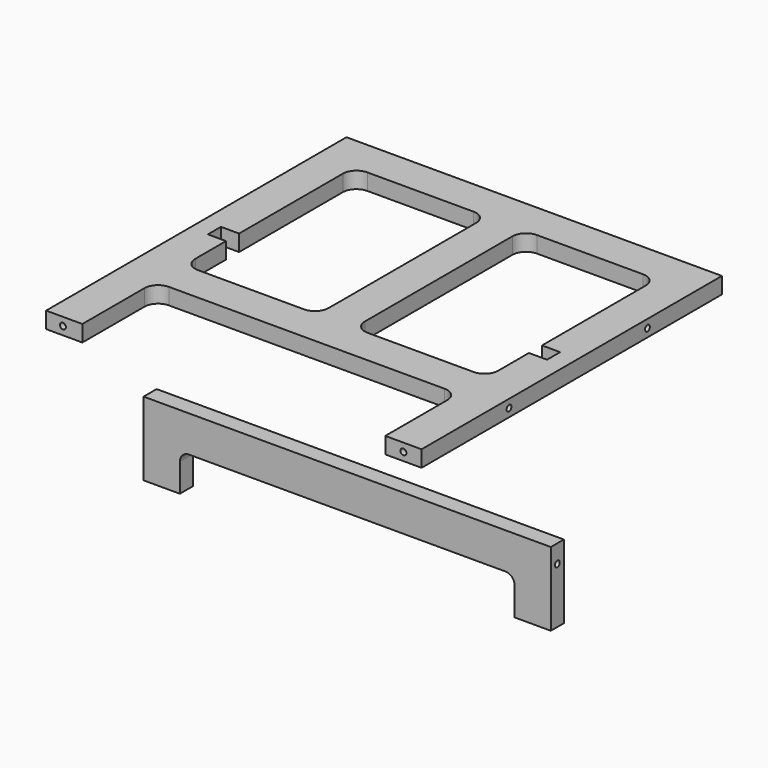
from build123d import *

# Parameters (mm, degrees)
F1_DEPTH         = 18
F6_D             = 6.6
F6_DEPTH         = 6
F6_TIP           = 1.9828400428
F6_ON_F5_D       = 6.6
F6_ON_F5_DEPTH   = 6
F6_ON_F5_TIP     = 1.9828400428
F6_ON_F2_D       = 6.6
F6_ON_F2_DEPTH   = 6
F6_ON_F2_TIP     = 1.9828400428
F6_ON_F4_D       = 6.6
F6_ON_F4_DEPTH   = 6
F6_ON_F4_TIP     = 1.9828400428
F7_ANGLE         = 90
F8_ANGLE         = -90
F10_DEPTH        = 18
F12_DEPTH        = 18
F17_D            = 6.6
F17_DEPTH        = 5
F17_TIP          = 1.9828400428
F17_ON_F15_D     = 6.6
F17_ON_F15_DEPTH = 5
F17_ON_F15_TIP   = 1.9828400428
F17_ON_F16_D     = 6.6
F17_ON_F16_DEPTH = 5
F17_ON_F16_TIP   = 1.9828400428
F17_ON_F14_D     = 6.6
F17_ON_F14_DEPTH = 5
F17_ON_F14_TIP   = 1.9828400428


with BuildPart() as f1:
    # F0 (on Top) → F1 (new body)
    with BuildSketch(Plane.XY):
        with BuildLine():
            Line((15, 353.7286525786), (-192, 353.7286525786))
            Line((-192, 353.7286525786), (-192, -60.2713474214))
            Line((-192, -60.2713474214), (-152, -60.2713474214))
            Line((-152, -60.2713474214), (-152, 25.3286525786))
            ThreePointArc((-152, 25.3286525786), (-147.6066017178, 35.9352542964), (-137, 40.3286525786))
            Line((-137, 40.3286525786), (15, 40.3286525786))
            Line((15, 40.3286525786), (15, 353.7286525786))
        make_face()
        with BuildLine():
            ThreePointArc((-20, 313.7286525786), (-9.3933982822, 309.3352542964), (-5, 298.7286525786))
            Line((-5, 298.7286525786), (-5, 95.3286525786))
            ThreePointArc((-5, 95.3286525786), (-9.3933982822, 84.7220508608), (-20, 80.3286525786))
            Line((-20, 80.3286525786), (-137, 80.3286525786))
            ThreePointArc((-137, 80.3286525786), (-147.6066017178, 84.7220508608), (-152, 95.3286525786))
            Line((-152, 95.3286525786), (-152, 298.7286525786))
            ThreePointArc((-152, 298.7286525786), (-147.6066017178, 309.3352542964), (-137, 313.7286525786))
            Line((-137, 313.7286525786), (-20, 313.7286525786))
        make_face(mode=Mode.SUBTRACT)
        with BuildLine():
            Line((222, 353.7286525786), (15, 353.7286525786))
            Line((15, 353.7286525786), (15, 40.3286525786))
            Line((15, 40.3286525786), (167, 40.3286525786))
            ThreePointArc((167, 40.3286525786), (177.6066017178, 35.9352542964), (182, 25.3286525786))
            Line((182, 25.3286525786), (182, -60.2713474214))
            Line((182, -60.2713474214), (222, -60.2713474214))
            Line((222, -60.2713474214), (222, 353.7286525786))
        make_face()
        with BuildLine():
            ThreePointArc((35, 298.7286525786), (39.3933982822, 309.3352542964), (50, 313.7286525786))
            Line((50, 313.7286525786), (167, 313.7286525786))
            ThreePointArc((167, 313.7286525786), (177.6066017178, 309.3352542964), (182, 298.7286525786))
            Line((182, 298.7286525786), (182, 95.3286525786))
            ThreePointArc((182, 95.3286525786), (177.6066017178, 84.7220508608), (167, 80.3286525786))
            Line((167, 80.3286525786), (50, 80.3286525786))
            ThreePointArc((50, 80.3286525786), (39.3933982822, 84.7220508608), (35, 95.3286525786))
            Line((35, 95.3286525786), (35, 298.7286525786))
        make_face(mode=Mode.SUBTRACT)
    extrude(amount=F1_DEPTH)

    # F6
    with Locations(Plane.XZ.offset(60.2713474214)):
        with Locations((202, 9), (-173.4263598919, 9)):
            Hole(F6_D / 2, depth=F6_DEPTH)
            with Locations((0, 0, -(F6_DEPTH + F6_TIP / 2))):  # 118° drill point
                Cone(0, F6_D / 2, F6_TIP, mode=Mode.SUBTRACT)

    # F6 on F5
    with Locations(Plane(origin=(-192, 0, 0), x_dir=(0, -1, 0), z_dir=(-1, 0, 0))):
        with Locations((-60.3286525786, 9), (-251.1286525786, 9)):
            Hole(F6_ON_F5_D / 2, depth=F6_ON_F5_DEPTH)
            with Locations((0, 0, -(F6_ON_F5_DEPTH + F6_ON_F5_TIP / 2))):  # 118° drill point
                Cone(0, F6_ON_F5_D / 2, F6_ON_F5_TIP, mode=Mode.SUBTRACT)

    # F6 on F2
    with Locations(Plane(origin=(0, 353.7286525786, 0), x_dir=(-1, 0, 0), z_dir=(0, 1, 0))):
        with Locations((172, 9), (-15, 9), (-202, 9)):
            Hole(F6_ON_F2_D / 2, depth=F6_ON_F2_DEPTH)
            with Locations((0, 0, -(F6_ON_F2_DEPTH + F6_ON_F2_TIP / 2))):  # 118° drill point
                Cone(0, F6_ON_F2_D / 2, F6_ON_F2_TIP, mode=Mode.SUBTRACT)

    # F6 on F4
    with Locations(Plane.YZ.offset(222)):
        with Locations((60.3286525786, 9), (251.1286525786, 9)):
            Hole(F6_ON_F4_D / 2, depth=F6_ON_F4_DEPTH)
            with Locations((0, 0, -(F6_ON_F4_DEPTH + F6_ON_F4_TIP / 2))):  # 118° drill point
                Cone(0, F6_ON_F4_D / 2, F6_ON_F4_TIP, mode=Mode.SUBTRACT)


with BuildPart() as f1_1:
    # F7: moved
    add(f1.part.rotate(Axis((15, 353.7286525786, 18), (1, 0, 0)), F7_ANGLE))


with BuildPart() as f1_2:
    # F8: moved
    add(f1_1.part.rotate(Axis((15, 353.7286525786, 18), (1, 0, 0)), F8_ANGLE))

    # F9 (on face) → F10 (cut)
    with BuildSketch(Plane.XY.offset(18)):
        Polygon((-172, 155.7286525786), (-172, 146.7286525786), (-172, 137.7286525786), (-152, 137.7286525786), (-152, 155.7286525786), align=None)
        Polygon((202, 137.7286525786), (202, 146.7286525786), (202, 155.7286525786), (182, 155.7286525786), (182, 137.7286525786), align=None)
    extrude(amount=-F10_DEPTH, mode=Mode.SUBTRACT)


with BuildPart() as f12:
    # F11 (on Front) → F12 (new body)
    with BuildSketch(Plane.XZ):
        with BuildLine():
            Line((330.7051759626, -140.0111902357), (330.7051759626, -58.7111902357))
            Line((330.7051759626, -58.7111902357), (-118.2948240374, -58.7111902357))
            Line((-118.2948240374, -58.7111902357), (-118.2948240374, -140.0111902357))
            Line((-118.2948240374, -140.0111902357), (-78.2948240374, -140.0111902357))
            Line((-78.2948240374, -140.0111902357), (-78.2948240374, -108.7111902357))
            ThreePointArc((-78.2948240374, -108.7111902357), (-75.3658918492, -101.6401224238), (-68.2948240374, -98.7111902357))
            Line((-68.2948240374, -98.7111902357), (280.7051759626, -98.7111902357))
            ThreePointArc((280.7051759626, -98.7111902357), (287.7762437745, -101.6401224238), (290.7051759626, -108.7111902357))
            Line((290.7051759626, -108.7111902357), (290.7051759626, -140.0111902357))
            Line((290.7051759626, -140.0111902357), (330.7051759626, -140.0111902357))
        make_face()
    extrude(amount=F12_DEPTH)

    # F17
    with Locations(Plane(origin=(0, 0, -140.0111902357), x_dir=(1, 0, 0), z_dir=(0, 0, -1))):
        with Locations((-98.2948240374, 9)):
            Hole(F17_D / 2, depth=F17_DEPTH)
            with Locations((0, 0, -(F17_DEPTH + F17_TIP / 2))):  # 118° drill point
                Cone(0, F17_D / 2, F17_TIP, mode=Mode.SUBTRACT)

    # F17 on F15
    with Locations(Plane(origin=(-118.2948240374, 0, 0), x_dir=(0, -1, 0), z_dir=(-1, 0, 0))):
        with Locations((9, -78.7111902357)):
            Hole(F17_ON_F15_D / 2, depth=F17_ON_F15_DEPTH)
            with Locations((0, 0, -(F17_ON_F15_DEPTH + F17_ON_F15_TIP / 2))):  # 118° drill point
                Cone(0, F17_ON_F15_D / 2, F17_ON_F15_TIP, mode=Mode.SUBTRACT)

    # F17 on F16
    with Locations(Plane.YZ.offset(330.7051759626)):
        with Locations((-9, -78.7111902357)):
            Hole(F17_ON_F16_D / 2, depth=F17_ON_F16_DEPTH)
            with Locations((0, 0, -(F17_ON_F16_DEPTH + F17_ON_F16_TIP / 2))):  # 118° drill point
                Cone(0, F17_ON_F16_D / 2, F17_ON_F16_TIP, mode=Mode.SUBTRACT)

    # F17 on F14
    with Locations(Plane(origin=(0, 0, -140.0111902357), x_dir=(1, 0, 0), z_dir=(0, 0, -1))):
        with Locations((310.7051759626, 9)):
            Hole(F17_ON_F14_D / 2, depth=F17_ON_F14_DEPTH)
            with Locations((0, 0, -(F17_ON_F14_DEPTH + F17_ON_F14_TIP / 2))):  # 118° drill point
                Cone(0, F17_ON_F14_D / 2, F17_ON_F14_TIP, mode=Mode.SUBTRACT)


solid = Compound([f1_2.part, f12.part])
